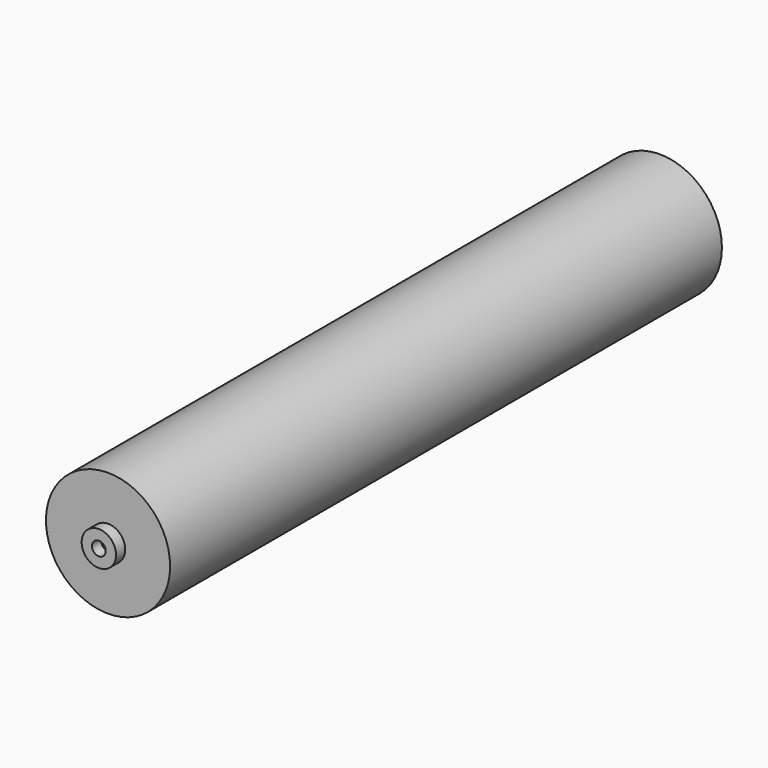
from build123d import *

# Parameters (mm, degrees)
F0_R     = 3
F1_DEPTH = 150
F0_R_2   = 7.4761454261
F2_DEPTH = 155
F0_R_3   = 27
F3_DEPTH = 150


with BuildPart() as f1:
    # F0 (on Front) → F1 (new body, symmetric)
    with BuildSketch(Plane.XZ):
        Circle(F0_R)
    extrude(amount=F1_DEPTH, both=True)

    # F0 (on Front) → F2 (join, symmetric)
    with BuildSketch(Plane.XZ):
        Circle(F0_R_2)
        Circle(F0_R, mode=Mode.SUBTRACT)
    extrude(amount=F2_DEPTH, both=True)

    # F0 (on Front) → F3 (join, symmetric)
    with BuildSketch(Plane.XZ):
        Circle(F0_R_3)
        Circle(F0_R_2, mode=Mode.SUBTRACT)
    extrude(amount=F3_DEPTH, both=True)


solid = f1.part
